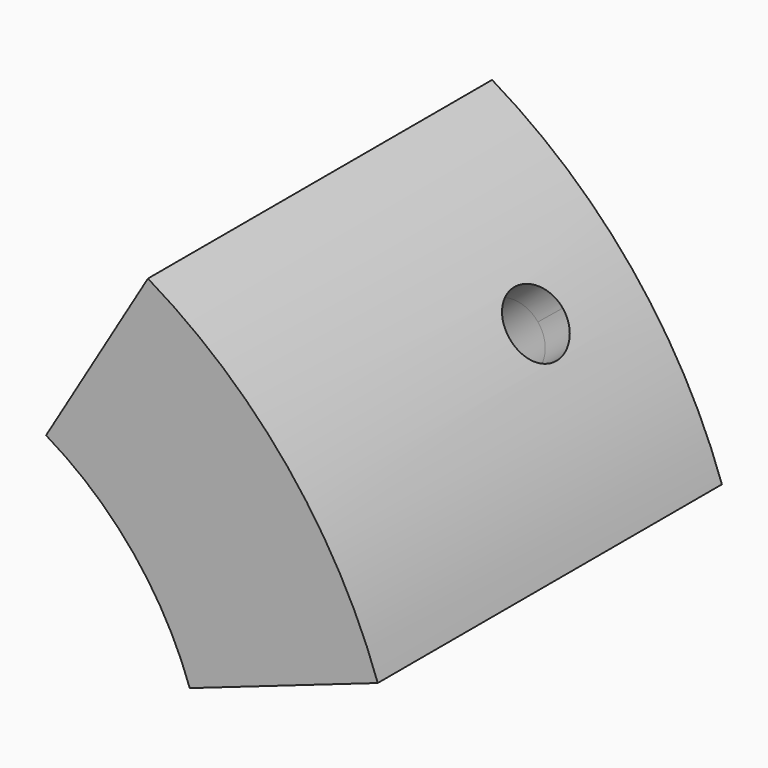
from build123d import *

# Parameters (mm, degrees)
F2_DEPTH = 28.4
F3_DEPTH = 4
F6_D     = 5
F6_DEPTH = 5
F6_TIP   = 1.5021515476
F7_D     = 5
F7_DEPTH = 7
F7_TIP   = 1.5021515476
F8_R     = 1
F9_R     = 1.4485281374


with BuildPart() as f2:
    # F0 (on Front) → F2 (new body)
    with BuildSketch(Plane.XZ):
        with BuildLine():
            Line((23.6029717884, 8.2401288069), (37.7647548615, 13.1842060911))
            ThreePointArc((37.7647548615, 13.1842060911), (30.9779974122, 25.3054080451), (20.4548362885, 34.3744043208))
            Line((20.4548362885, 34.3744043208), (12.7842726803, 21.4840027005))
            ThreePointArc((12.7842726803, 21.4840027005), (19.3612483826, 15.8158800282), (23.6029717884, 8.2401288069))
        make_face()
    extrude(amount=F2_DEPTH)

    # F1 (on Front) + F0 (on Front) → F3 (join)
    with BuildSketch(Plane.XZ):
        with BuildLine():
            ThreePointArc((15.2340019476, 15.8721512297), (17.0378985767, 13.9179744248), (18.5928148308, 11.7604097152))
            Line((18.5928148308, 11.7604097152), (21.4911474241, 12.7722583124))
            ThreePointArc((21.4911474241, 12.7722583124), (22.6606475272, 10.5591218219), (23.6029717884, 8.2401288069))
            Line((23.6029717884, 8.2401288069), (37.7647548615, 13.1842060911))
            ThreePointArc((37.7647548615, 13.1842060911), (30.9779974122, 25.3054080451), (20.4548362885, 34.3744043208))
            Line((20.4548362885, 34.3744043208), (12.7842726803, 21.4840027005))
            ThreePointArc((12.7842726803, 21.4840027005), (14.8685909795, 20.0978855177), (16.8038497839, 18.5102845046))
            Line((16.8038497839, 18.5102845046), (15.2340019476, 15.8721512297))
        make_face()
    with BuildSketch(Plane.XZ):
        with BuildLine():
            Line((23.6029717884, 8.2401288069), (37.7647548615, 13.1842060911))
            ThreePointArc((37.7647548615, 13.1842060911), (30.9779974122, 25.3054080451), (20.4548362885, 34.3744043208))
            Line((20.4548362885, 34.3744043208), (12.7842726803, 21.4840027005))
            ThreePointArc((12.7842726803, 21.4840027005), (19.3612483826, 15.8158800282), (23.6029717884, 8.2401288069))
        make_face()
    extrude(amount=-F3_DEPTH)

    # F6 (one way)
    with BuildSketch(Plane(origin=(29.109795575, 0, 23.7793052059), x_dir=(0, 1, 0), z_dir=(-0.7744499353, 0, -0.6326352011))):
        with Locations((-5, 0)):
            Circle(F6_D / 2)
    extrude(amount=-F6_DEPTH, mode=Mode.SUBTRACT)
    with Locations(Plane(origin=(29.109795575, 0, 23.7793052059), x_dir=(0, 1, 0), z_dir=(-0.7744499353, 0, -0.6326352011))):
        with Locations((-5, 0)):
            with Locations((0, 0, -(F6_DEPTH + F6_TIP / 2))):  # 118° drill point
                Cone(0, F6_D / 2, F6_TIP, mode=Mode.SUBTRACT)

    # F7
    with Locations(Plane(origin=(29.109795575, 0, 23.7793052059), x_dir=(0, 1, 0), z_dir=(0.7744499353, 0, 0.6326352011))):
        with Locations((-5, 0)):
            Hole(F7_D / 2, depth=F7_DEPTH)
            with Locations((0, 0, -(F7_DEPTH + F7_TIP / 2))):  # 118° drill point
                Cone(0, F7_D / 2, F7_TIP, mode=Mode.SUBTRACT)

    # F8
    f8_edges = [f2.edges().sort_by_distance(p)[0] for p in [
        (21.491147, 2, 12.772258),
        (16.80385, 2, 18.510285),
    ]]
    fillet(f8_edges, radius=F8_R)

    # F9
    f9_edges = [f2.edges().sort_by_distance(p)[0] for p in [
        (17.037899, 4, 13.917974),
        (16.505655, 4, 18.471804),
        (21.393938, 4, 12.487739),
    ]]
    fillet(f9_edges, radius=F9_R)


solid = f2.part
